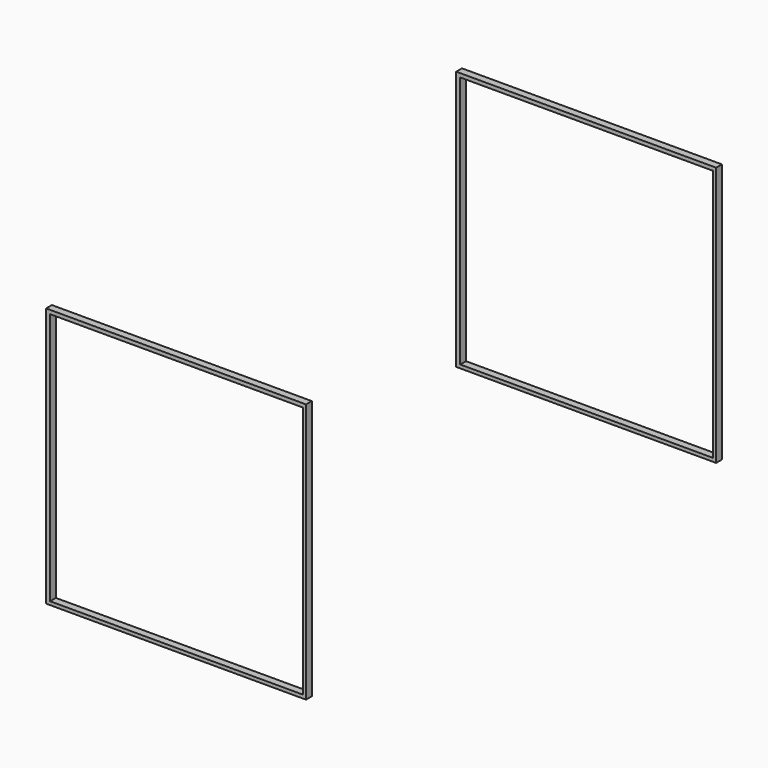
from build123d import *

# Parameters (mm, degrees)
F0_W     = 914.4
F0_H     = 914.4
F0_W_2   = 889
F0_H_2   = 889
F1_DEPTH = 25.4


with BuildPart() as f1:
    # F0 (on Front) → F1 (new body)
    with BuildSketch(Plane.XZ):
        with Locations((-65.9344701303, -10.821223259)):
            Rectangle(F0_W, F0_H)
        with Locations((-64.5315341949, -11.4212937355)):
            Rectangle(F0_W_2, F0_H_2, mode=Mode.SUBTRACT)
    extrude(amount=F1_DEPTH)


with BuildPart() as f3_1:
    # F3: copy of F1
    add(f1.part)


with BuildPart() as f4_1:
    # F4: instance of F1
    add(f1.part.mirror(Plane.XZ.offset(914.4)))


solid = Compound([f1.part, f3_1.part, f4_1.part])
